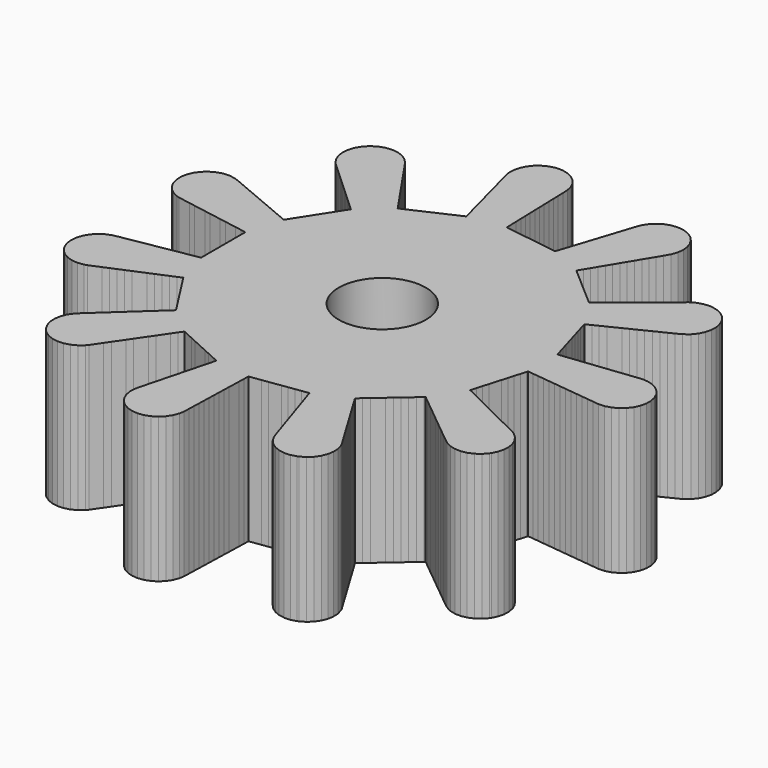
from build123d import *

# Parameters (mm, degrees)
F1_DEPTH = 5


with BuildPart() as f1:
    # F0 (on Top) → F1 (new body)
    with BuildSketch(Plane.XY):
        Polygon((4.079381, -0.674722), (4.092124, -0.631325), (4.26998, -0.651633), (4.475159, -0.675062), (4.680337, -0.698491), (4.892477, -0.722714), (5.097656, -0.746143), (5.302834, -0.769571), (5.514974, -0.793795), (5.720152, -0.817223), (5.925331, -0.840652), (6.137471, -0.864875), (6.342649, -0.888304), (6.547828, -0.911733), (6.759967, -0.935956), (6.962749, -0.925471), (7.158516, -0.871569), (7.338086, -0.77678), (7.493034, -0.645551), (7.616092, -0.484036), (7.701488, -0.299814), (7.745214, -0.101526), (7.745214, 0.101526), (7.701488, 0.299814), (7.616092, 0.484036), (7.493034, 0.645551), (7.338086, 0.77678), (7.158516, 0.871569), (6.962749, 0.925471), (6.810801, 0.937467), (6.759967, 0.935956), (6.554789, 0.912527), (6.34961, 0.889099), (6.137471, 0.864875), (5.932292, 0.841447), (5.727114, 0.818018), (5.514974, 0.793795), (5.309795, 0.770366), (5.104617, 0.746937), (4.892477, 0.722714), (4.687299, 0.699285), (4.48212, 0.675857), (4.26998, 0.651633), (4.092124, 0.631325), (4.033943, 0.829471), (3.975762, 1.027618), (3.917581, 1.225764), (3.8594, 1.423911), (3.801219, 1.622058), (3.743038, 1.820204), (3.684856, 2.018351), (3.626675, 2.216497), (3.568494, 2.414644), (3.555752, 2.458041), (3.741025, 2.54926), (3.926299, 2.640478), (4.117858, 2.734792), (4.303132, 2.82601), (4.488406, 2.917228), (4.679965, 3.011542), (4.865239, 3.10276), (5.050512, 3.193979), (5.242072, 3.288292), (5.427345, 3.379511), (5.612619, 3.470729), (5.804179, 3.565042), (5.987726, 3.659685), (6.166617, 3.797547), (6.293768, 3.95586), (6.38385, 4.137837), (6.432636, 4.334941), (6.437838, 4.537927), (6.399213, 4.737271), (6.318571, 4.923623), (6.292248, 4.967138), (6.164611, 5.125059), (6.005966, 5.251794), (5.823753, 5.341398), (5.626522, 5.389667), (5.525149, 5.397514), (5.322839, 5.380173), (5.129008, 5.319678), (4.952748, 5.218867), (4.792808, 5.088229), (4.632867, 4.957592), (4.4675, 4.822523), (4.307559, 4.691885), (4.147619, 4.561248), (3.982251, 4.426179), (3.822311, 4.295541), (3.66237, 4.164904), (3.497003, 4.029834), (3.337062, 3.899197), (3.177122, 3.76856), (3.011754, 3.63349), (2.873112, 3.520249), (2.717041, 3.655486), (2.56097, 3.790722), (2.404898, 3.925959), (2.248827, 4.061195), (2.092756, 4.196432), (1.936685, 4.331668), (1.780614, 4.466904), (1.624543, 4.602141), (1.468471, 4.737377), (1.434289, 4.766996), (1.540835, 4.943901), (1.64738, 5.120805), (1.757541, 5.303711), (1.864087, 5.480616), (1.970632, 5.65752), (2.080793, 5.840426), (2.187338, 6.017331), (2.293884, 6.194235), (2.404044, 6.377141), (2.51059, 6.554046), (2.617136, 6.73095), (2.727296, 6.913856), (2.830539, 7.092708), (2.906498, 7.305401), (2.927874, 7.507325), (2.905271, 7.709115), (2.83975, 7.901306), (2.734384, 8.074881), (2.594116, 8.221698), (2.425526, 8.334869), (2.379856, 8.357244), (2.187103, 8.42109), (1.985124, 8.441937), (1.783393, 8.418805), (1.591375, 8.35278), (1.418078, 8.246959), (1.271629, 8.106306), (1.158901, 7.93742), (1.116903, 7.844824), (1.05298, 7.648454), (0.989057, 7.452085), (0.922966, 7.249053), (0.859043, 7.052683), (0.79512, 6.856314), (0.729028, 6.653282), (0.665105, 6.456912), (0.601183, 6.260543), (0.535091, 6.057511), (0.471168, 5.861141), (0.407245, 5.664772), (0.341154, 5.46174), (0.285743, 5.29152), (0.081333, 5.320909), (-0.123076, 5.350299), (-0.327486, 5.379689), (-0.531896, 5.409079), (-0.736306, 5.438468), (-0.940715, 5.467858), (-1.145125, 5.497248), (-1.349535, 5.526637), (-1.553945, 5.556027), (-1.598714, 5.562464), (-1.604724, 5.768888), (-1.610734, 5.975312), (-1.616947, 6.18874), (-1.622957, 6.395165), (-1.628967, 6.601589), (-1.635181, 6.815017), (-1.64119, 7.021441), (-1.6472, 7.227865), (-1.653414, 7.441293), (-1.659424, 7.647717), (-1.665434, 7.854142), (-1.671647, 8.06757), (-1.681489, 8.273847), (-1.732579, 8.493842), (-1.823764, 8.675268), (-1.951875, 8.832805), (-2.110901, 8.959062), (-2.293382, 9.048118), (-2.490758, 9.095793), (-2.592154, 9.103335), (-2.744287, 9.093984), (-2.940959, 9.043485), (-3.122145, 8.951824), (-3.279345, 8.8233), (-3.405185, 8.663944), (-3.493762, 8.48123), (-3.54092, 8.28373), (-3.544446, 8.080708), (-3.529716, 7.980105), (-3.477326, 7.780349), (-3.424935, 7.580593), (-3.370768, 7.37406), (-3.318378, 7.174304), (-3.265988, 6.974548), (-3.21182, 6.768015), (-3.15943, 6.56826), (-3.10704, 6.368504), (-3.052872, 6.161971), (-3.000482, 5.962215), (-2.948092, 5.762459), (-2.893925, 5.555926), (-2.848511, 5.38277), (-3.036361, 5.296982), (-3.224211, 5.211194), (-3.41206, 5.125406), (-3.59991, 5.039618), (-3.78776, 4.95383), (-3.975609, 4.868042), (-4.163459, 4.782253), (-4.351309, 4.696465), (-4.539159, 4.610677), (-4.580301, 4.591888), (-4.696958, 4.762294), (-4.813615, 4.9327), (-4.93423, 5.108888), (-5.050887, 5.279294), (-5.167545, 5.4497), (-5.28816, 5.625887), (-5.404817, 5.796294), (-5.521474, 5.9667), (-5.642089, 6.142887), (-5.758746, 6.313293), (-5.875404, 6.483699), (-5.996019, 6.659887), (-6.11582, 6.828097), (-6.277737, 6.985548), (-6.452534, 7.088874), (-6.645479, 7.152141), (-6.84752, 7.172379), (-7.049179, 7.148641), (-7.240998, 7.082039), (-7.413977, 6.975697), (-7.453302, 6.943449), (-7.591451, 6.794637), (-7.694319, 6.61957), (-7.757079, 6.426461), (-7.776788, 6.224367), (-7.75252, 6.02277), (-7.685415, 5.831127), (-7.578621, 5.658428), (-7.511838, 5.581759), (-7.359769, 5.442038), (-7.207699, 5.302317), (-7.05047, 5.157855), (-6.898401, 5.018134), (-6.746331, 4.878413), (-6.589102, 4.733952), (-6.437033, 4.594231), (-6.284963, 4.45451), (-6.127735, 4.310048), (-5.975665, 4.170327), (-5.823596, 4.030606), (-5.666367, 3.886144), (-5.534547, 3.765029), (-5.646196, 3.5913), (-5.757845, 3.417571), (-5.869493, 3.243843), (-5.981142, 3.070114), (-6.092791, 2.896385), (-6.204439, 2.722656), (-6.316088, 2.548928), (-6.427737, 2.375199), (-6.539385, 2.20147), (-6.563838, 2.163421), (-6.754105, 2.243706), (-6.944372, 2.323991), (-7.141094, 2.407), (-7.331361, 2.487285), (-7.521627, 2.56757), (-7.718349, 2.650579), (-7.908616, 2.730864), (-8.098883, 2.811149), (-8.295605, 2.894158), (-8.485872, 2.974443), (-8.676138, 3.054728), (-8.87286, 3.137737), (-9.064585, 3.214475), (-9.285923, 3.259391), (-9.33673, 3.261631), (-9.538932, 3.24306), (-9.732392, 3.181388), (-9.908035, 3.079508), (-10.057622, 2.942199), (-10.174136, 2.775902), (-10.252111, 2.588418), (-10.287876, 2.38854), (-10.279765, 2.18565), (-10.228159, 1.989265), (-10.135479, 1.808598), (-10.006073, 1.652124), (-9.84601, 1.527183), (-9.6628, 1.439637), (-9.565169, 1.411244), (-9.361701, 1.375918), (-9.158233, 1.340592), (-8.947862, 1.304068), (-8.744394, 1.268742), (-8.540926, 1.233416), (-8.330555, 1.196892), (-8.127087, 1.161566), (-7.923619, 1.12624), (-7.713248, 1.089716), (-7.50978, 1.05439), (-7.306312, 1.019064), (-7.095941, 0.982539), (-6.919568, 0.951918), (-6.919568, 0.745406), (-6.919568, 0.538894), (-6.919568, 0.332382), (-6.919568, 0.125871), (-6.919568, -0.080641), (-6.919568, -0.287153), (-6.919568, -0.493665), (-6.919568, -0.700176), (-6.919568, -0.906688), (-6.919568, -0.951918), (-7.123036, -0.987244), (-7.326504, -1.022569), (-7.536875, -1.059094), (-7.740343, -1.09442), (-7.943811, -1.129746), (-8.154182, -1.16627), (-8.35765, -1.201596), (-8.561118, -1.236922), (-8.771489, -1.273446), (-8.974957, -1.308772), (-9.178425, -1.344098), (-9.388796, -1.380622), (-9.591573, -1.41972), (-9.802058, -1.501598), (-9.96866, -1.617676), (-10.106361, -1.766902), (-10.208702, -1.942278), (-10.270881, -2.135575), (-10.289982, -2.337727), (-10.265108, -2.53925), (-10.252111, -2.588418), (-10.174136, -2.775902), (-10.057622, -2.942199), (-9.908035, -3.079508), (-9.732392, -3.181388), (-9.538932, -3.24306), (-9.33673, -3.261631), (-9.135273, -3.236229), (-9.037791, -3.207331), (-8.847524, -3.127046), (-8.657257, -3.046761), (-8.460535, -2.963752), (-8.270268, -2.883467), (-8.080002, -2.803182), (-7.88328, -2.720173), (-7.693013, -2.639888), (-7.502746, -2.559603), (-7.306024, -2.476594), (-7.115757, -2.396309), (-6.925491, -2.316024), (-6.728769, -2.233015), (-6.563838, -2.163421), (-6.45219, -2.337149), (-6.340541, -2.510878), (-6.228892, -2.684607), (-6.117244, -2.858336), (-6.005595, -3.032064), (-5.893946, -3.205793), (-5.782298, -3.379522), (-5.670649, -3.553251), (-5.559, -3.726979), (-5.534547, -3.765029), (-5.686617, -3.90475), (-5.838686, -4.044471), (-5.995915, -4.188933), (-6.147985, -4.328654), (-6.300054, -4.468375), (-6.457283, -4.612836), (-6.609352, -4.752557), (-6.761422, -4.892279), (-6.918651, -5.03674), (-7.07072, -5.176461), (-7.22279, -5.316182), (-7.380019, -5.460644), (-7.529468, -5.603164), (-7.662272, -5.785841), (-7.739671, -5.973564), (-7.774834, -6.173548), (-7.766114, -6.376413), (-7.713918, -6.572642), (-7.620695, -6.75303), (-7.490818, -6.909114), (-7.453302, -6.943449), (-7.286344, -7.059014), (-7.098419, -7.13592), (-6.898344, -7.170559), (-6.695502, -7.161306), (-6.499411, -7.108596), (-6.319269, -7.0149), (-6.163525, -6.884615), (-6.097141, -6.807601), (-5.980484, -6.637195), (-5.863827, -6.466789), (-5.743212, -6.290601), (-5.626555, -6.120195), (-5.509898, -5.949789), (-5.389282, -5.773602), (-5.272625, -5.603196), (-5.155968, -5.43279), (-5.035353, -5.256602), (-4.918696, -5.086196), (-4.802039, -4.91579), (-4.681423, -4.739602), (-4.580301, -4.591888), (-4.392451, -4.677676), (-4.204601, -4.763464), (-4.016752, -4.849253), (-3.828902, -4.935041), (-3.641052, -5.020829), (-3.453202, -5.106617), (-3.265353, -5.192405), (-3.077503, -5.278193), (-2.889653, -5.363981), (-2.848511, -5.38277), (-2.900901, -5.582526), (-2.953291, -5.782282), (-3.007459, -5.988815), (-3.059849, -6.188571), (-3.112239, -6.388327), (-3.166407, -6.59486), (-3.218797, -6.794616), (-3.271187, -6.994371), (-3.325354, -7.200904), (-3.377744, -7.40066), (-3.430134, -7.600416), (-3.484302, -7.806949), (-3.532974, -8.007643), (-3.545933, -8.233121), (-3.509555, -8.432888), (-3.431017, -8.620136), (-3.314004, -8.786082), (-3.164004, -8.922941), (-2.988055, -9.024293), (-2.79441, -9.085383), (-2.592154, -9.103335), (-2.390776, -9.077315), (-2.199723, -9.008545), (-2.02796, -8.900251), (-1.883542, -8.757515), (-1.773245, -8.587031), (-1.702243, -8.396797), (-1.676857, -8.246506), (-1.670847, -8.040081), (-1.664837, -7.833657), (-1.658623, -7.620229), (-1.652614, -7.413805), (-1.646604, -7.207381), (-1.64039, -6.993953), (-1.63438, -6.787529), (-1.628371, -6.581104), (-1.622157, -6.367676), (-1.616147, -6.161252), (-1.610137, -5.954828), (-1.603923, -5.7414), (-1.598714, -5.562464), (-1.394304, -5.533074), (-1.189894, -5.503684), (-0.985485, -5.474295), (-0.781075, -5.444905), (-0.576665, -5.415515), (-0.372255, -5.386126), (-0.167846, -5.356736), (0.036564, -5.327346), (0.240974, -5.297957), (0.285743, -5.29152), (0.349666, -5.487889), (0.413589, -5.684259), (0.47968, -5.887291), (0.543603, -6.08366), (0.607526, -6.28003), (0.673618, -6.483062), (0.73754, -6.679431), (0.801463, -6.875801), (0.867555, -7.078833), (0.931478, -7.275202), (0.995401, -7.471572), (1.061492, -7.674604), (1.12905, -7.869752), (1.24005, -8.066442), (1.378656, -8.214829), (1.54596, -8.329892), (1.734115, -8.406232), (1.934295, -8.440269), (2.137107, -8.430407), (2.333039, -8.377107), (2.379856, -8.357244), (2.554335, -8.253381), (2.702358, -8.114387), (2.816981, -7.946781), (2.892828, -7.758426), (2.92634, -7.558159), (2.915945, -7.355373), (2.862131, -7.159581), (2.819654, -7.067203), (2.713108, -6.890299), (2.606563, -6.713395), (2.496402, -6.530488), (2.389857, -6.353584), (2.283311, -6.17668), (2.17315, -5.993773), (2.066605, -5.816869), (1.960059, -5.639965), (1.849899, -5.457058), (1.743353, -5.280154), (1.636807, -5.10325), (1.526647, -4.920344), (1.434289, -4.766996), (1.59036, -4.63176), (1.746432, -4.496523), (1.902503, -4.361287), (2.058574, -4.226051), (2.214645, -4.090814), (2.370716, -3.955578), (2.526787, -3.820341), (2.682859, -3.685105), (2.83893, -3.549868), (2.873112, -3.520249), (3.033053, -3.650887), (3.192993, -3.781524), (3.358361, -3.916593), (3.518301, -4.047231), (3.678242, -4.177868), (3.843609, -4.312937), (4.00355, -4.443575), (4.16349, -4.574212), (4.328857, -4.709281), (4.488798, -4.839919), (4.648739, -4.970556), (4.814106, -5.105625), (4.976445, -5.23327), (5.176162, -5.338725), (5.372989, -5.388621), (5.575942, -5.394966), (5.775501, -5.357463), (5.962304, -5.277872), (6.127589, -5.159926), (6.263601, -5.009158), (6.292248, -4.967138), (6.382876, -4.785432), (6.432255, -4.588476), (6.438067, -4.385507), (6.400041, -4.186047), (6.319961, -3.999453), (6.201582, -3.834478), (6.050458, -3.698862), (5.96478, -3.644114), (5.779507, -3.552895), (5.594233, -3.461677), (5.402674, -3.367364), (5.2174, -3.276145), (5.032127, -3.184927), (4.840567, -3.090613), (4.655293, -2.999395), (4.47002, -2.908176), (4.27846, -2.813863), (4.093187, -2.722645), (3.907913, -2.631426), (3.716354, -2.537113), (3.555752, -2.458041), (3.613933, -2.259895), (3.672114, -2.061748), (3.730295, -1.863602), (3.788476, -1.665455), (3.846657, -1.467308), (3.904838, -1.269162), (3.963019, -1.071015), (4.0212, -0.872869), align=None)
        with BuildLine():
            ThreePointArc((-2.554803, -1), (-1.972002, 1.401259), (0.063231, 0))
            ThreePointArc((0.063231, 0), (-0.03551, -0.535233), (-0.318735, -1))
            ThreePointArc((-0.318735, -1), (-1.436769, -1.5), (-2.554803, -1))
        make_face(mode=Mode.SUBTRACT)
    extrude(amount=F1_DEPTH)


solid = f1.part
